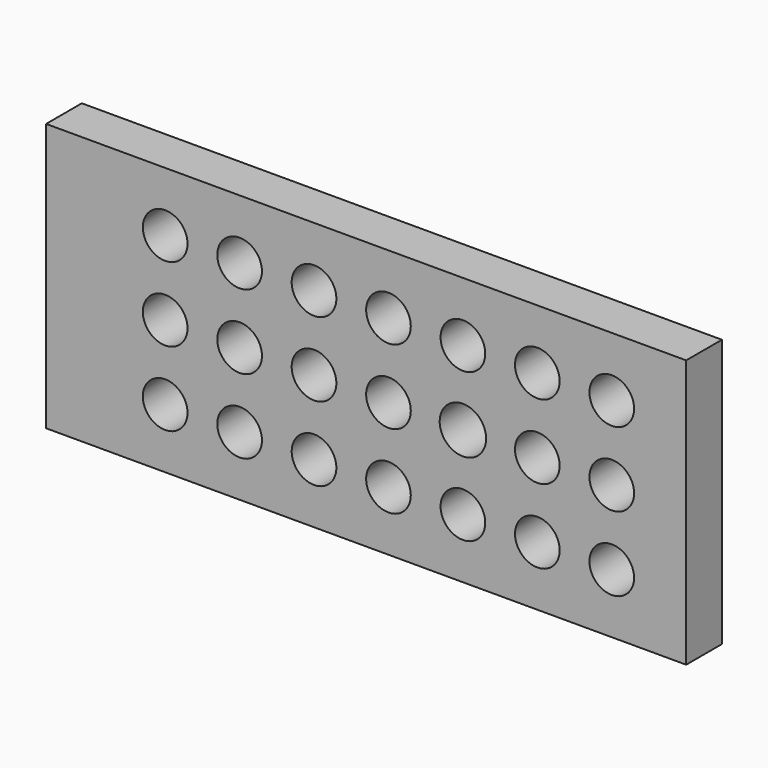
from build123d import *

# Parameters (mm, degrees)
F0_W     = 273.05
F0_H     = 114.3
F1_DEPTH = 19.05
F2_R     = 9.525
F2_R_2   = 9.898593
F3_DEPTH = 25.4


with BuildPart() as f1:
    # F0 (on Front) → F1 (new body)
    with BuildSketch(Plane.XZ):
        with Locations((136.525, 57.15)):
            Rectangle(F0_W, F0_H)
    extrude(amount=F1_DEPTH)

    # F2 (on face) → F3 (cut)
    with BuildSketch(Plane.XZ.offset(19.05)):
        with Locations((50.8, 88.9)):
            Circle(F2_R)
        with Locations((50.8, 57.15)):
            Circle(F2_R)
        with Locations((82.55, 88.9)):
            Circle(F2_R)
        with Locations((82.55, 57.15)):
            Circle(F2_R)
        with Locations((114.3, 88.9)):
            Circle(F2_R)
        with Locations((114.3, 57.15)):
            Circle(F2_R)
        with Locations((50.8, 25.4)):
            Circle(F2_R)
        with Locations((82.55, 25.4)):
            Circle(F2_R)
        with Locations((114.3, 25.4)):
            Circle(F2_R)
        with Locations((146.05, 88.9)):
            Circle(F2_R)
        with Locations((146.05, 57.15)):
            Circle(F2_R)
        with Locations((146.05, 25.4)):
            Circle(F2_R)
        with Locations((177.8, 88.9)):
            Circle(F2_R)
        with Locations((177.8, 57.15)):
            Circle(F2_R_2)
        with Locations((177.8, 25.4)):
            Circle(F2_R)
        with Locations((209.55, 88.9)):
            Circle(F2_R)
        with Locations((209.55, 57.15)):
            Circle(F2_R)
        with Locations((209.55, 25.4)):
            Circle(F2_R)
        with Locations((241.3, 88.9)):
            Circle(F2_R)
        with Locations((241.3, 57.15)):
            Circle(F2_R)
        with Locations((241.3, 25.4)):
            Circle(F2_R)
    extrude(amount=-F3_DEPTH, mode=Mode.SUBTRACT)


solid = f1.part
